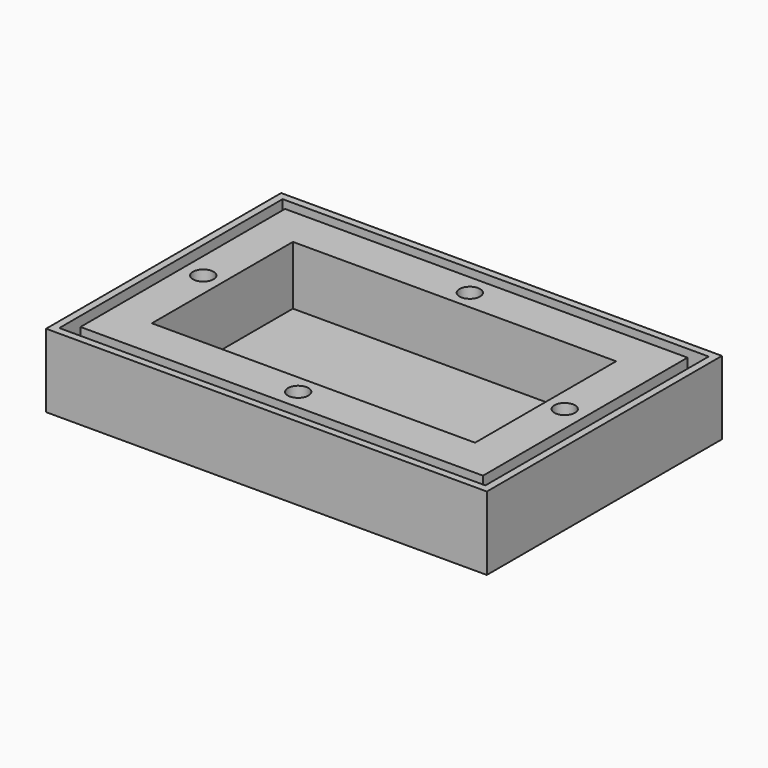
from build123d import *

# Parameters (mm, degrees)
SKETCH_W      = 60
SKETCH_H      = 40
PAD_DEPTH     = 2
SKETCH001_W   = 60
SKETCH001_H   = 40
SKETCH001_W_2 = 44
SKETCH001_H_2 = 24
PAD001_DEPTH  = 10
SKETCH002_W   = 58
SKETCH002_H   = 38
SKETCH002_W_2 = 54.8
SKETCH002_H_2 = 34.8
SKETCH002_R   = 1.4
POCKET_DEPTH  = 6


with BuildPart() as part:
    # Sketch → Pad (new body)
    with BuildSketch(Plane.XY):
        Rectangle(SKETCH_W, SKETCH_H)
    extrude(amount=PAD_DEPTH)

    # Sketch001 → Pad001 (join)
    with BuildSketch(Plane.XY):
        Rectangle(SKETCH001_W, SKETCH001_H)
        Rectangle(SKETCH001_W_2, SKETCH001_H_2, mode=Mode.SUBTRACT)
    extrude(amount=PAD001_DEPTH)

    # Sketch002 (on Face10 of Pad001) → Pocket (cut)
    with BuildSketch(Plane.XY.offset(10)):
        Rectangle(SKETCH002_W, SKETCH002_H)
        Rectangle(SKETCH002_W_2, SKETCH002_H_2, mode=Mode.SUBTRACT)
        with Locations((0, 14.6)):
            Circle(SKETCH002_R)
        with Locations((24.6, 0)):
            Circle(SKETCH002_R)
        with Locations((0, -14.6)):
            Circle(SKETCH002_R)
        with Locations((-24.6, 0)):
            Circle(SKETCH002_R)
    extrude(amount=-POCKET_DEPTH, mode=Mode.SUBTRACT)


solid = part.part
